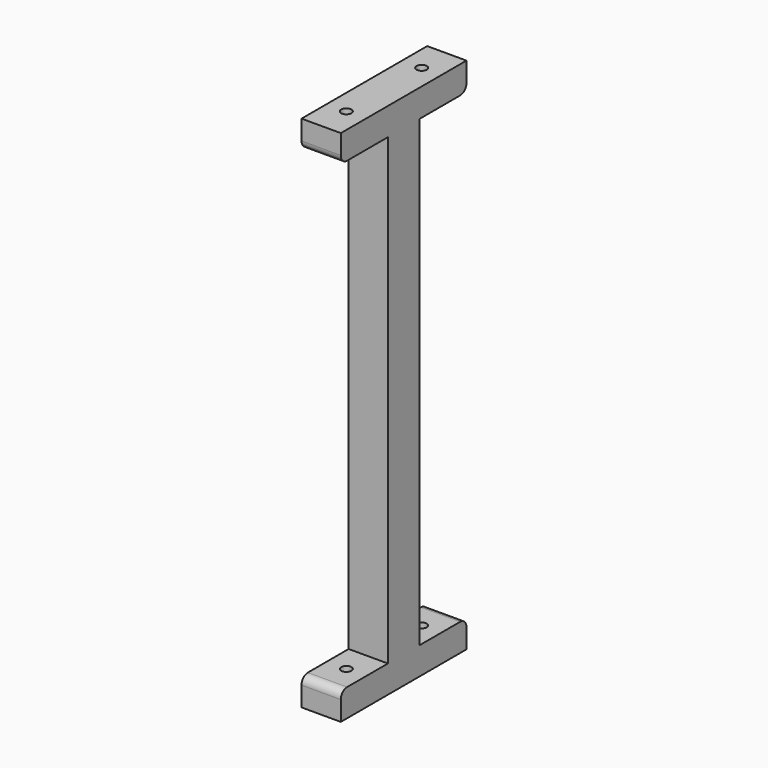
from build123d import *

# Parameters (mm, degrees)
CYLINDER020_R          = 1.3
CYLINDER020_DEPTH      = 146
CYLINDER019_R          = 1.3
CYLINDER019_DEPTH      = 146
BOX079_W               = 15
BOX079_H               = 10
BOX079_DEPTH           = 7
BOX080_W               = 10
BOX080_H               = 10
BOX080_DEPTH           = 132
BOX081_W               = 15
BOX081_H               = 10
BOX081_DEPTH           = 7
BOX078_W               = 15
BOX078_H               = 10
BOX078_DEPTH           = 7
BOX077_W               = 15
BOX077_H               = 10
BOX077_DEPTH           = 7
FILLET003_R            = 2
CUT033_PLACEMENT_ANGLE = 90


with BuildPart() as cilindro020:
    # Cylinder020 → Cylinder020 (new body)
    with BuildSketch(Plane(origin=(182, 5, 8), x_dir=(1, 0, 0), z_dir=(0, 0, 1))):
        Circle(CYLINDER020_R)
    extrude(amount=CYLINDER020_DEPTH)


with BuildPart() as cilindro019:
    # Cylinder019 → Cylinder019 (new body)
    with BuildSketch(Plane(origin=(158, 5, 8), x_dir=(1, 0, 0), z_dir=(0, 0, 1))):
        Circle(CYLINDER019_R)
    extrude(amount=CYLINDER019_DEPTH)


with BuildPart() as cubo042:
    # Box079 → Box079 (new body)
    with BuildSketch(Plane(origin=(175, 0, 15), x_dir=(1, 0, 0), z_dir=(0, 0, 1))):
        with Locations((7.5, 5)):
            Rectangle(BOX079_W, BOX079_H)
    extrude(amount=BOX079_DEPTH)


with BuildPart() as cubo043:
    # Box080 → Box080 (new body)
    with BuildSketch(Plane(origin=(165, 0, 15), x_dir=(1, 0, 0), z_dir=(0, 0, 1))):
        with Locations((5, 5)):
            Rectangle(BOX080_W, BOX080_H)
    extrude(amount=BOX080_DEPTH)


with BuildPart() as cubo044:
    # Box081 → Box081 (new body)
    with BuildSketch(Plane(origin=(150, 0, 15), x_dir=(1, 0, 0), z_dir=(0, 0, 1))):
        with Locations((7.5, 5)):
            Rectangle(BOX081_W, BOX081_H)
    extrude(amount=BOX081_DEPTH)


with BuildPart() as cubo041:
    # Box078 → Box078 (new body)
    with BuildSketch(Plane(origin=(150, 0, 140), x_dir=(1, 0, 0), z_dir=(0, 0, 1))):
        with Locations((7.5, 5)):
            Rectangle(BOX078_W, BOX078_H)
    extrude(amount=BOX078_DEPTH)


with BuildPart() as obj1:
    # Box077 → Box077 (new body)
    with BuildSketch(Plane(origin=(175, 0, 140), x_dir=(1, 0, 0), z_dir=(0, 0, 1))):
        with Locations((7.5, 5)):
            Rectangle(BOX077_W, BOX077_H)
    extrude(amount=BOX077_DEPTH)

    # Fusion011: union Cubo042, Cubo043, Cubo044, Cubo041
    add(cubo042.part)
    add(cubo043.part)
    add(cubo044.part)
    add(cubo041.part)

    # Fillet003
    fillet003_edges = [obj1.edges().sort_by_distance(p)[0] for p in [
        (190, 5, 140),
        (190, 5, 22),
        (150, 5, 22),
        (150, 5, 140),
    ]]
    fillet(fillet003_edges, radius=FILLET003_R)

    # Cut034: cut Cilindro019
    add(cilindro019.part, mode=Mode.SUBTRACT)

    # Cut033: cut Cilindro020
    add(cilindro020.part, mode=Mode.SUBTRACT)


with BuildPart() as obj1_1:
    # Cut033 placement: moved
    add(obj1.part.moved(Location((340, -55, 0))).rotate(Axis((340, -55, 0), (0, 0, 1)), CUT033_PLACEMENT_ANGLE))


solid = obj1_1.part
